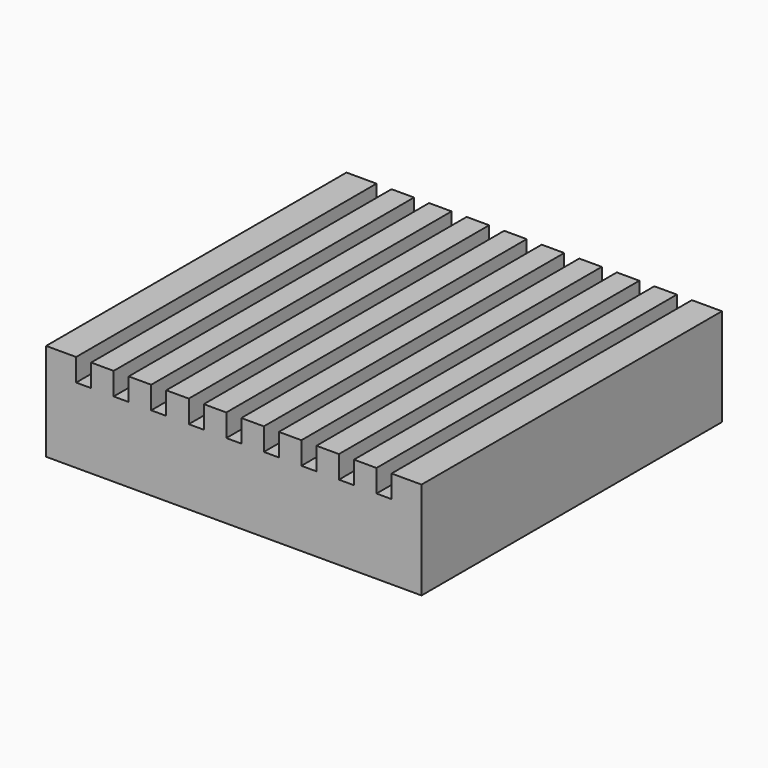
from build123d import *

# Parameters (mm, degrees)
F0_W     = 50
F0_H     = 50
F1_DEPTH = 13
F2_W     = 2
F2_H     = 3
F3_DEPTH = 50.001


with BuildPart() as f1:
    # F0 (on Top) → F1 (new body)
    with BuildSketch(Plane.XY):
        Rectangle(F0_W, F0_H)
    extrude(amount=F1_DEPTH)

    # F2 (on face) → F3 (cut, through all)
    with BuildSketch(Plane(origin=(0, 25, 0), x_dir=(-1, 0, 0), z_dir=(0, 1, 0))):
        with Locations((-20, 11.5)):
            Rectangle(F2_W, F2_H)
        with Locations((-15, 11.5)):
            Rectangle(F2_W, F2_H)
        with Locations((-10, 11.5)):
            Rectangle(F2_W, F2_H)
        with Locations((-5, 11.5)):
            Rectangle(F2_W, F2_H)
        Polygon((1, 13), (-1, 13), (-1, 10), (0, 10), (1, 10), align=None)
        with Locations((5, 11.5)):
            Rectangle(F2_W, F2_H)
        with Locations((10, 11.5)):
            Rectangle(F2_W, F2_H)
        with Locations((15, 11.5)):
            Rectangle(F2_W, F2_H)
        with Locations((20, 11.5)):
            Rectangle(F2_W, F2_H)
    extrude(amount=-F3_DEPTH, mode=Mode.SUBTRACT)


solid = f1.part
